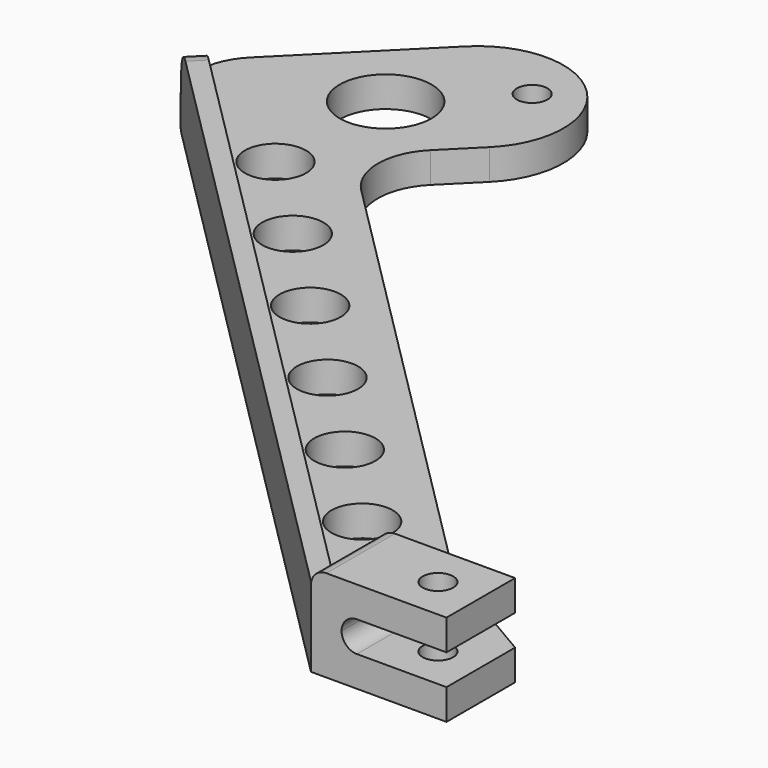
from build123d import *

# Parameters (mm, degrees)
F0_R     = 5
F0_R_2   = 7.5
F0_R_3   = 2.5
F1_DEPTH = 5
F3_DEPTH = 14
F5_R     = 2.5
F6_DEPTH = 25
F7_R     = 2.5
F8_DEPTH = 5
F4_W     = 150
F4_H     = 5
F9_DEPTH = 3


with BuildPart() as f1:
    # F0 (on Top) → F1 (new body)
    with BuildSketch(Plane.XY):
        with BuildLine():
            Line((15, 7), (-4.0848081724, 18.2269437961))
            Line((-4.0848081724, 18.2269437961), (-79.2670273048, 93.4091629285))
            ThreePointArc((-79.2670273048, 93.4091629285), (-82.1959594929, 100.4802307404), (-79.2670273048, 107.5512985522))
            Line((-79.2670273048, 107.5512985522), (-73.8864699203, 112.9318559367))
            ThreePointArc((-73.8864699203, 112.9318559367), (-73.8864699203, 132.7308458099), (-93.6854597935, 132.7308458099))
            Line((-93.6854597935, 132.7308458099), (-113.2081528017, 113.2081528017))
            ThreePointArc((-113.2081528017, 113.2081528017), (-116.1370849898, 106.1370849898), (-113.2081528017, 99.066017178))
            Line((-113.2081528017, 99.066017178), (-7.1421356237, -7))
            Line((-7.1421356237, -7), (15, -7))
            Line((15, -7), (15, 7))
        make_face()
        with Locations((-64.4147610714, 64.4208090516)):
            Circle(F0_R, mode=Mode.SUBTRACT)
        with Locations((-21.9838184576, 21.998938408)):
            Circle(F0_R, mode=Mode.SUBTRACT)
        with Locations((-36.1274659955, 36.1395619558)):
            Circle(F0_R, mode=Mode.SUBTRACT)
        with Locations((-50.2711135335, 50.2801855037)):
            Circle(F0_R, mode=Mode.SUBTRACT)
        with Locations((-92.7020561473, 92.7020561473)):
            Circle(F0_R, mode=Mode.SUBTRACT)
        with Locations((-78.5584086094, 78.5614325994)):
            Circle(F0_R, mode=Mode.SUBTRACT)
        with Locations((-92.1330977986, 114.4842179316)):
            Circle(F0_R_2, mode=Mode.SUBTRACT)
        with Locations((-78.8362173886, 127.7810983416)):
            Circle(F0_R_3, mode=Mode.SUBTRACT)
    extrude(amount=F1_DEPTH)


with BuildPart() as f3:
    # F2 (on face) → F3 (new body)
    with BuildSketch(Plane.XZ.offset(7)):
        with BuildLine():
            Line((-7.1421356237, 12.5), (-7.1421356237, 5))
            Line((-7.1421356237, 5), (0.3578643763, 5))
            ThreePointArc((0.3578643763, 5), (-1.4099025767, 5.732233047), (-2.1421356237, 7.5))
            ThreePointArc((-2.1421356237, 7.5), (-1.4099025767, 9.267766953), (0.3578643763, 10))
            Line((0.3578643763, 10), (15, 10))
            Line((15, 10), (15, 15))
            Line((15, 15), (-4.6421356237, 15))
            ThreePointArc((-4.6421356237, 15), (-6.4099025767, 14.267766953), (-7.1421356237, 12.5))
        make_face()
    extrude(amount=-F3_DEPTH)


with BuildPart() as f6_tool:
    # F5 (on face) → F6 (new body)
    with BuildSketch(Plane(origin=(0, 0, 0), x_dir=(1, 0, 0), z_dir=(0, 0, -1))):
        with Locations((8, 0)):
            Circle(F5_R)
    extrude(amount=-F6_DEPTH)


with BuildPart() as f1_1:
    add(f1.part)

    # F6: cut by f6_tool
    add(f6_tool.part, mode=Mode.SUBTRACT)

    # F7 (on face) → F8 (cut)
    with BuildSketch(Plane.XY.offset(15)):
        with Locations((8, 0)):
            Circle(F7_R)
    extrude(amount=-F8_DEPTH, mode=Mode.SUBTRACT)



with BuildPart() as f3_1:
    add(f3.part)

    # F6: cut by f6_tool
    add(f6_tool.part, mode=Mode.SUBTRACT)


with BuildPart() as f1_2:
    add(f1_1.part)

    add(f3_1.part)  # F9 merges F3
    # F4 (on face) → F9 (join)
    with BuildSketch(Plane(origin=(-7.0710678119, -7.0710678119, 0), x_dir=(0.7071067812, -0.7071067812, 0), z_dir=(-0.7071067812, -0.7071067812, 0))):
        with Locations((-75.1005050634, 2.5)):
            Rectangle(F4_W, F4_H)
        with BuildLine():
            Line((-150.1005050634, 5), (-0.1005050634, 5))
            Line((-0.1005050634, 5), (-0.1005050634, 13))
            Line((-0.1005050634, 13), (-145.1080126235, 12.782269238))
            ThreePointArc((-145.1080126235, 12.782269238), (-148.638692297, 11.3151534598), (-150.1005050634, 7.7822748743))
            Line((-150.1005050634, 7.7822748743), (-150.1005050634, 5))
        make_face()
    extrude(amount=-F9_DEPTH)


solid = f1_2.part
